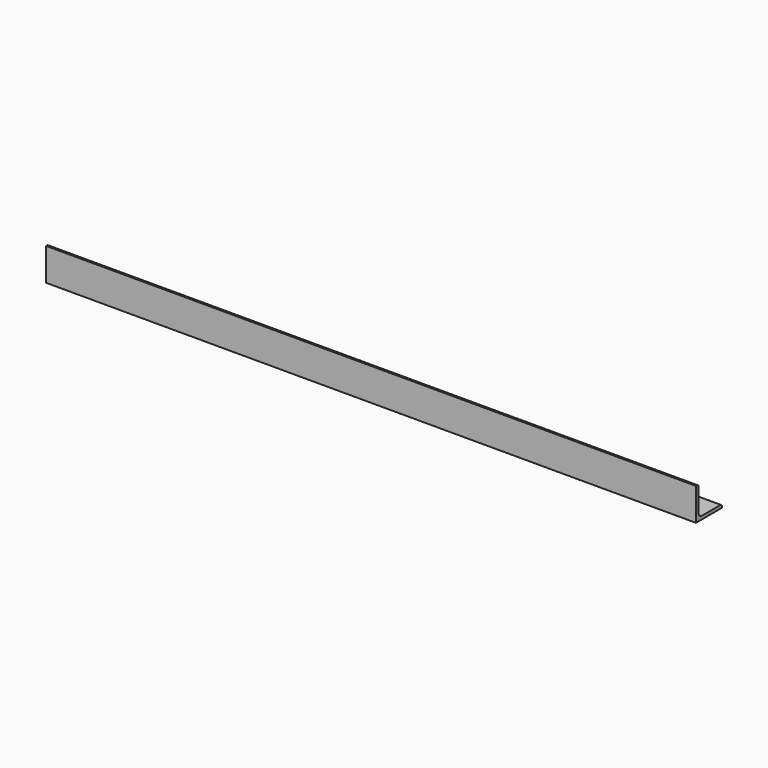
from build123d import *

# Parameters (mm, degrees)
F1_DEPTH = 800


with BuildPart() as f1:
    # F0 (on Right) → F1 (new body, symmetric)
    with BuildSketch(Plane.YZ):
        with BuildLine():
            Line((0, 0), (80, 0))
            Line((80, 0), (80, 3))
            ThreePointArc((80, 3), (78.535534, 6.535534), (75, 8))
            Line((75, 8), (18, 8))
            ThreePointArc((18, 8), (10.928932, 10.928932), (8, 18))
            Line((8, 18), (8, 75))
            ThreePointArc((8, 75), (6.535534, 78.535534), (3, 80))
            Line((3, 80), (0, 80))
            Line((0, 80), (0, 0))
        make_face()
    extrude(amount=F1_DEPTH, both=True)


solid = f1.part
